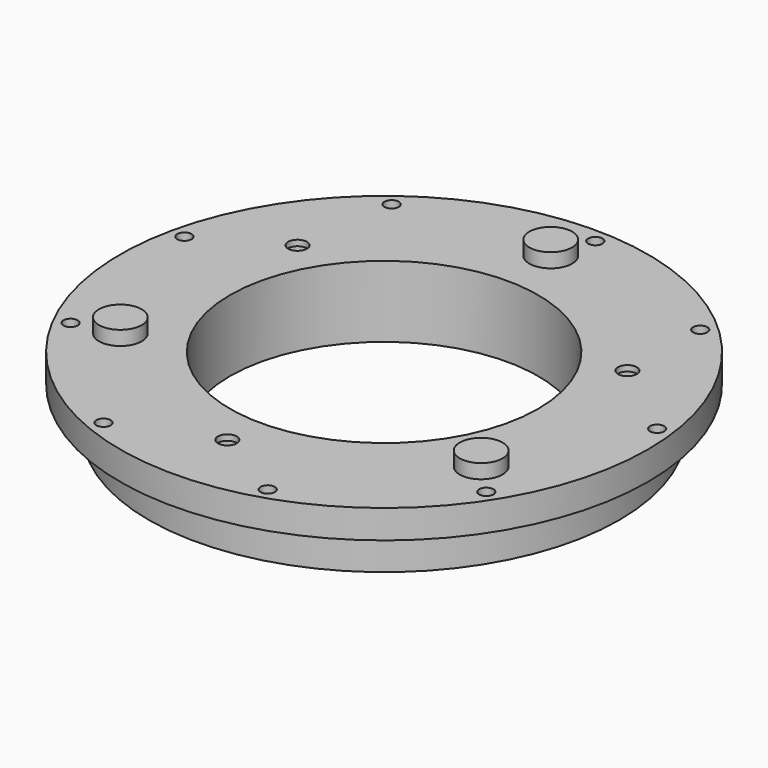
from build123d import *

# Parameters (mm, degrees)
F0_R      = 117.475
F1_DEPTH  = 12.7
F2_R      = 104.775
F3_DEPTH  = 19.05
F6_D      = 6.35
F8_D      = 8.382
F9_R      = 15.875
F9_R_2    = 4.191
F10_DEPTH = 29.21
F11_R     = 68.58
F12_DEPTH = 31.751
F13_R     = 9.525
F14_DEPTH = 6.35


with BuildPart() as f1:
    # F0 (on Top) → F1 (new body)
    with BuildSketch(Plane.XY):
        Circle(F0_R)
    extrude(amount=F1_DEPTH)

    # F2 (on face) → F3 (join)
    with BuildSketch(Plane(origin=(0, 0, 0), x_dir=(1, 0, 0), z_dir=(0, 0, -1))):
        Circle(F2_R)
    extrude(amount=F3_DEPTH)

    # F6 (through all)
    with Locations(Plane.XY.offset(12.7)):
        with Locations((-108.409797, 24.41478), (-98.740241, -50.981668), (-42.869029, -102.523227), (33.061079, -106.093029), (93.52154, -60.020723), (110.222233, 14.135946), (75.348719, 81.678248), (-67.353204, 88.387281), (5.218701, 111.002391)):
            Hole(F6_D / 2)

    # F8 (through all)
    with Locations(Plane(origin=(0, 0, -19.05), x_dir=(1, 0, 0), z_dir=(0, 0, -1))):
        with Locations((74.827591, -41.828307), (-73.638172, -43.888441), (-1.189419, 85.716748)):
            Hole(F8_D / 2)

    # F9 (on face) → F10 (cut)
    with BuildSketch(Plane(origin=(0, 0, -19.05), x_dir=(1, 0, 0), z_dir=(0, 0, -1))):
        with Locations((-73.638172, -43.888441)):
            Circle(F9_R)
        with Locations((-73.638172, -43.888441)):
            Circle(F9_R_2, mode=Mode.SUBTRACT)
        with Locations((-1.189419, 85.716748)):
            Circle(F9_R)
        with Locations((-1.189419, 85.716748)):
            Circle(F9_R_2, mode=Mode.SUBTRACT)
        with Locations((74.827591, -41.828307)):
            Circle(F9_R)
        with Locations((74.827591, -41.828307)):
            Circle(F9_R_2, mode=Mode.SUBTRACT)
    extrude(amount=-F10_DEPTH, mode=Mode.SUBTRACT)

    # F11 (on face) → F12 (cut, through all)
    with BuildSketch(Plane(origin=(0, 0, -19.05), x_dir=(1, 0, 0), z_dir=(0, 0, -1))):
        Circle(F11_R)
    extrude(amount=-F12_DEPTH, mode=Mode.SUBTRACT)

    # F13 (on face) → F14 (join)
    with BuildSketch(Plane.XY.offset(12.7)):
        with Locations((0, 92.71)):
            Circle(F13_R)
        with Locations((80.289215, -46.355)):
            Circle(F13_R)
        with Locations((-80.289215, -46.355)):
            Circle(F13_R)
    extrude(amount=F14_DEPTH)


solid = f1.part
